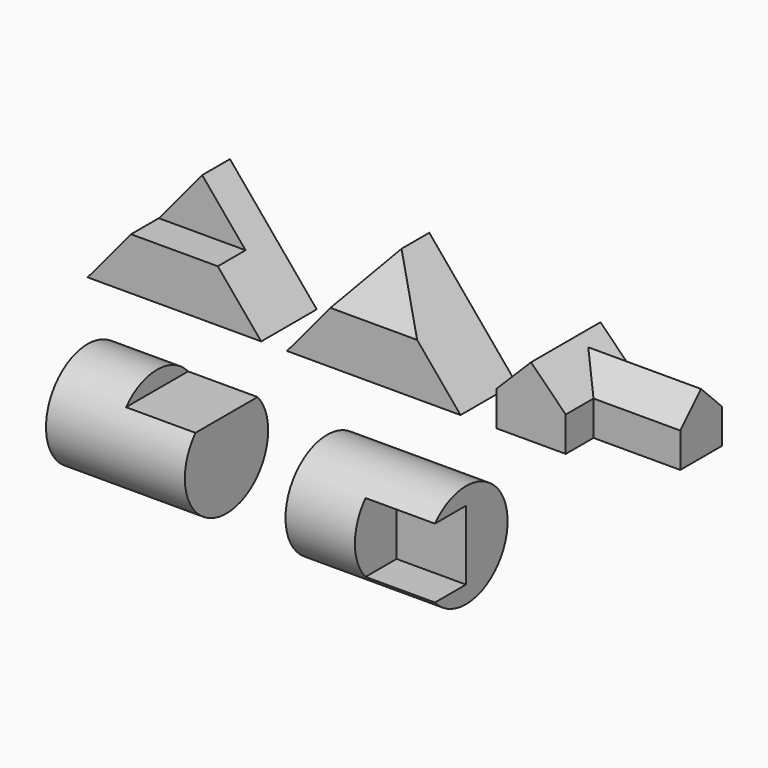
from build123d import *

# Parameters (mm, degrees)
F1_DEPTH  = 101.6
F3_DEPTH  = 50.8
F5_DEPTH  = 101.6
F8_DEPTH  = 244.348
F10_DEPTH = 127
F11_W     = 76.2
F11_H     = 50.8
F12_DEPTH = 127
F14_R     = 76.2
F15_DEPTH = 203.2
F17_DEPTH = 101.6
F20_DEPTH = 203.2
F22_DEPTH = 101.6


with BuildPart() as f1:
    # F0 (on Front) → F1 (new body)
    with BuildSketch(Plane.XZ):
        Polygon((127, 152.4), (0, 0), (254, 0), align=None)
    extrude(amount=-F1_DEPTH)

    # F2 (on face) → F3 (cut)
    with BuildSketch(Plane.XZ):
        Polygon((63.5, 76.2), (127, 76.2), (190.5, 76.2), (127, 152.4), align=None)
    extrude(amount=-F3_DEPTH, mode=Mode.SUBTRACT)


with BuildPart() as f5:
    # F4 (on Front) → F5 (new body)
    with BuildSketch(Plane.XZ):
        Polygon((418.7748224481, 152.4), (291.7748224481, 0), (545.7748224481, 0), align=None)
    extrude(amount=-F5_DEPTH)

    # F7 (on offset) → F8 (cut)
    with BuildSketch(Plane.YZ.offset(550.672)):
        Polygon((0, 152.4), (0, 76.2), (50.8, 152.4), align=None)
    extrude(amount=-F8_DEPTH, mode=Mode.SUBTRACT)


with BuildPart() as f10:
    # F9 (on Front) → F10 (new body)
    with BuildSketch(Plane.XZ):
        Polygon((598.1282820559, 50.8), (598.1282820559, 0), (699.7282820559, 0), (699.7282820559, 50.8), (648.9282820559, 101.6), align=None)
    extrude(amount=-F10_DEPTH)

    # F11 (on face) → F12 (join)
    with BuildSketch(Plane.YZ.offset(699.7282820559)):
        with Locations((88.9, 25.4)):
            Rectangle(F11_W, F11_H)
        Polygon((50.8, 50.8), (127, 50.8), (88.9, 88.9), align=None)
    extrude(amount=F12_DEPTH)

    # F11 (on face) → F13 (join, up to the next surface of F10)
    with BuildSketch(Plane.YZ.offset(699.7282820559)):
        Polygon((50.8, 50.8), (127, 50.8), (88.9, 88.9), align=None)
    extrude(until=Until.NEXT, dir=(-1, 0, 0))


with BuildPart() as f15:
    # F14 (on Right) → F15 (new body)
    with BuildSketch(Plane.YZ):
        with Locations((0, -162.0099643456)):
            Circle(F14_R)
    extrude(amount=F15_DEPTH)

    # F16 (on face) → F17 (cut)
    with BuildSketch(Plane.YZ.offset(203.2)):
        with BuildLine():
            Line((-56.7961266285, -111.2099643456), (56.7961266285, -111.2099643456))
            ThreePointArc((56.7961266285, -111.2099643456), (0, -85.8099643456), (-56.7961266285, -111.2099643456))
        make_face()
    extrude(amount=-F17_DEPTH, mode=Mode.SUBTRACT)


with BuildPart() as f20:
    # F19 (on offset) → F20 (new body)
    with BuildSketch(Plane.YZ.offset(350.52)):
        with BuildLine():
            ThreePointArc((-56.7961266285, -215.8130525019), (27.1898432407, -236.1969862549), (76.2, -165.0130525019))
            ThreePointArc((76.2, -165.0130525019), (27.1898432407, -93.829118749), (-56.7961266285, -114.2130525019))
            Line((-56.7961266285, -114.2130525019), (0, -114.2130525019))
            Line((0, -114.2130525019), (0, -215.8130525019))
            Line((0, -215.8130525019), (-56.7961266285, -215.8130525019))
        make_face()
        with BuildLine():
            Line((0, -114.2130525019), (-56.7961266285, -114.2130525019))
            ThreePointArc((-56.7961266285, -114.2130525019), (-76.2, -165.0130525019), (-56.7961266285, -215.8130525019))
            Line((-56.7961266285, -215.8130525019), (0, -215.8130525019))
            Line((0, -215.8130525019), (0, -114.2130525019))
        make_face()
    extrude(amount=F20_DEPTH)

    # F21 (on face) → F22 (cut)
    with BuildSketch(Plane.YZ.offset(553.72)):
        with BuildLine():
            Line((0, -215.8130525019), (0, -114.2130525019))
            Line((0, -114.2130525019), (-56.7961266285, -114.2130525019))
            ThreePointArc((-56.7961266285, -114.2130525019), (-76.2, -165.0130525019), (-56.7961266285, -215.8130525019))
            Line((-56.7961266285, -215.8130525019), (0, -215.8130525019))
        make_face()
    extrude(amount=-F22_DEPTH, mode=Mode.SUBTRACT)


solid = Compound([f1.part, f5.part, f10.part, f15.part, f20.part])
